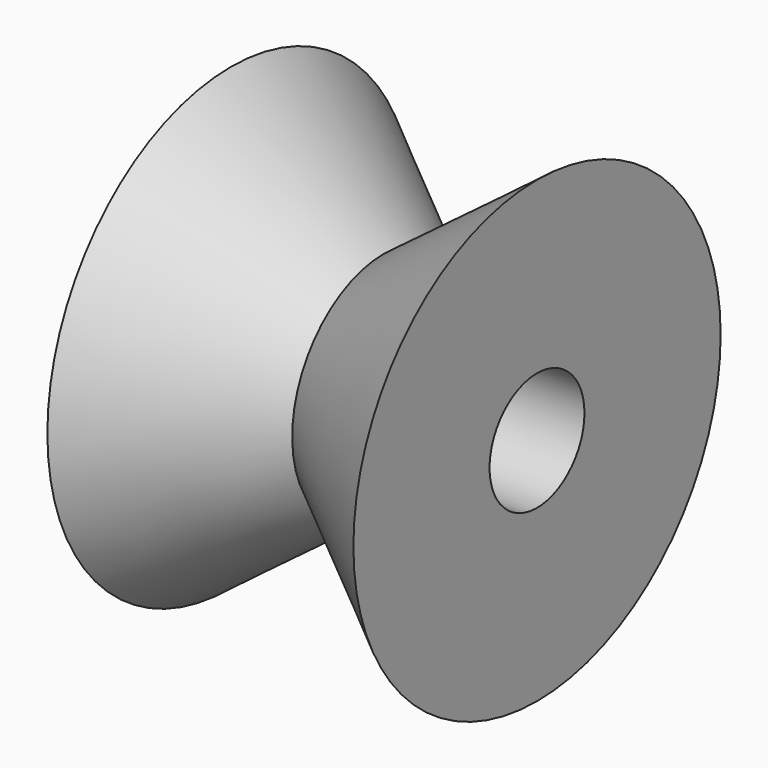
from build123d import *

# Parameters (mm, degrees)
F2_R     = 0.775
F3_DEPTH = 25


with BuildPart() as f1:
    # F0 (on Front) → F1 (revolve)
    with BuildSketch(Plane.XZ):
        Polygon((-2, 0), (2, 0), (2, 3), (0, 1.5), (-2, 3), align=None)
    revolve(axis=Axis((0, 0, 0), (1, 0, 0)))

    # F2 (on face) → F3 (cut)
    with BuildSketch(Plane.YZ.offset(2)):
        Circle(F2_R)
    extrude(amount=-F3_DEPTH, mode=Mode.SUBTRACT)


solid = f1.part
